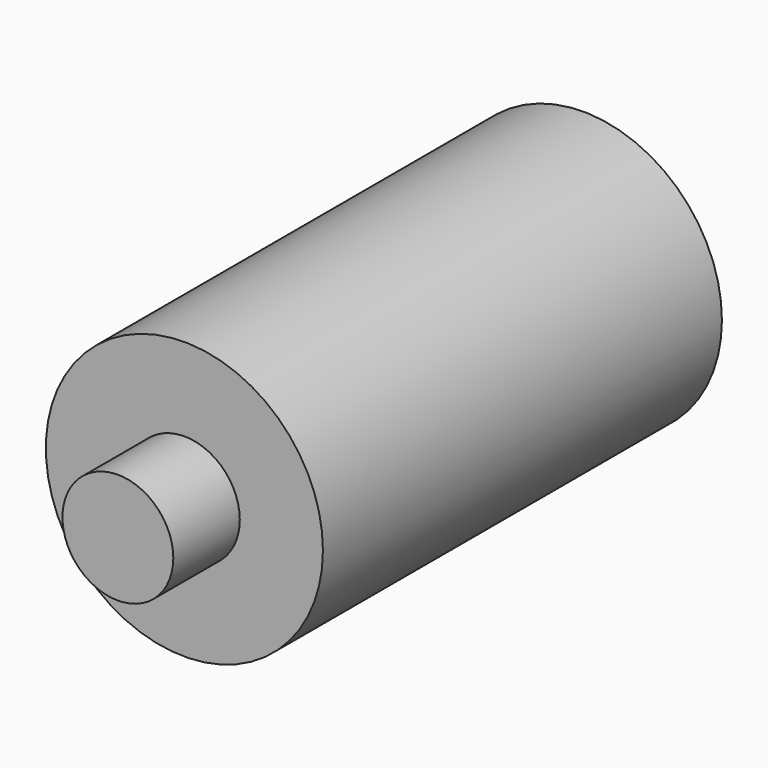
from build123d import *

# Parameters (mm, degrees)
F0_R     = 10
F1_DEPTH = 42
F2_R     = 16.4716554
F2_R_2   = 4
F3_DEPTH = 6
F5_D     = 6.8
F5_DEPTH = 25
F5_TIP   = 2.0429261047


with BuildPart() as f1:
    # F0 (on Front) → F1 (new body)
    with BuildSketch(Plane.XZ):
        Circle(F0_R)
    extrude(amount=-F1_DEPTH)

    # F2 (on face) → F3 (cut)
    with BuildSketch(Plane.XZ):
        Circle(F2_R)
        Circle(F2_R_2, mode=Mode.SUBTRACT)
    extrude(amount=-F3_DEPTH, mode=Mode.SUBTRACT)

    # F5
    with Locations(Plane(origin=(0, 42, 0), x_dir=(-1, 0, 0), z_dir=(0, 1, 0))):
        with Locations((0, 0)):
            Hole(F5_D / 2, depth=F5_DEPTH)
            with Locations((0, 0, -(F5_DEPTH + F5_TIP / 2))):  # 118° drill point
                Cone(0, F5_D / 2, F5_TIP, mode=Mode.SUBTRACT)


solid = f1.part
